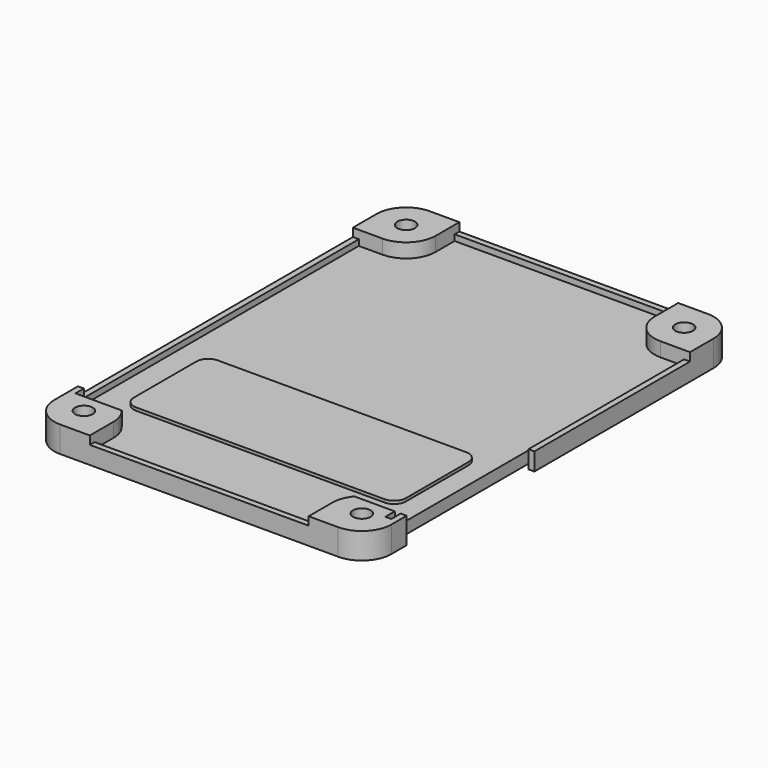
from build123d import *

# Parameters (mm, degrees)
F1_DEPTH = 2.4
F2_R     = 1.5
F3_DEPTH = 2
F4_DEPTH = 0.4
F2_W     = 37
F2_H     = 1
F5_DEPTH = 0.6
F7_DEPTH = 4.4
F9_DEPTH = 0.5


with BuildPart() as f1:
    # F0 (on Top) → F1 (new body)
    with BuildSketch(Plane.XY):
        with BuildLine():
            Line((20.160271, 23.298074), (-26.839729, 23.298074))
            ThreePointArc((-26.839729, 23.298074), (-30.375263, 21.833608), (-31.839729, 18.298074))
            Line((-31.839729, 18.298074), (-31.839729, -49.801926))
            ThreePointArc((-31.839729, -49.801926), (-30.375263, -53.33746), (-26.839729, -54.801926))
            Line((-26.839729, -54.801926), (20.160271, -54.801926))
            ThreePointArc((20.160271, -54.801926), (23.695805, -53.33746), (25.160271, -49.801926))
            Line((25.160271, -49.801926), (25.160271, 18.298074))
            ThreePointArc((25.160271, 18.298074), (23.695805, 21.833608), (20.160271, 23.298074))
        make_face()
        Polygon((-30.072891, -49.801926), (-28.45631, -47.001926), (-25.223148, -47.001926), (-23.606568, -49.801926), (-25.223148, -52.601926), (-28.45631, -52.601926), align=None, mode=Mode.SUBTRACT)
        Polygon((16.927109, -49.801926), (18.54369, -47.001926), (21.776852, -47.001926), (23.393432, -49.801926), (21.776852, -52.601926), (18.54369, -52.601926), align=None, mode=Mode.SUBTRACT)
        Polygon((-30.072891, 18.298074), (-28.45631, 21.098074), (-25.223148, 21.098074), (-23.606568, 18.298074), (-25.223148, 15.498074), (-28.45631, 15.498074), align=None, mode=Mode.SUBTRACT)
        Polygon((16.927109, 18.298074), (18.54369, 21.098074), (21.776852, 21.098074), (23.393432, 18.298074), (21.776852, 15.498074), (18.54369, 15.498074), align=None, mode=Mode.SUBTRACT)
    extrude(amount=F1_DEPTH)

    # F2 (on face) → F3 (join)
    with BuildSketch(Plane.XY.offset(2.4)):
        with BuildLine():
            Line((-21.839729, 23.298074), (-26.839729, 23.298074))
            ThreePointArc((-26.839729, 23.298074), (-30.375263, 21.833608), (-31.839729, 18.298074))
            Line((-31.839729, 18.298074), (-31.839729, 13.298074))
            Line((-31.839729, 13.298074), (-30.839729, 13.298074))
            Line((-30.839729, 13.298074), (-26.839729, 13.298074))
            ThreePointArc((-26.839729, 13.298074), (-23.304195, 14.76254), (-21.839729, 18.298074))
            Line((-21.839729, 18.298074), (-21.839729, 22.298074))
            Line((-21.839729, 22.298074), (-21.839729, 23.298074))
        make_face()
        Polygon((-28.45631, 15.498074), (-30.072891, 18.298074), (-28.45631, 21.098074), (-25.223148, 21.098074), (-23.606568, 18.298074), (-25.223148, 15.498074), align=None, mode=Mode.SUBTRACT)
        with BuildLine():
            Line((20.160271, 23.298074), (15.160271, 23.298074))
            Line((15.160271, 23.298074), (15.160271, 22.298074))
            Line((15.160271, 22.298074), (15.160271, 18.298074))
            ThreePointArc((15.160271, 18.298074), (16.624737, 14.76254), (20.160271, 13.298074))
            Line((20.160271, 13.298074), (24.160271, 13.298074))
            Line((24.160271, 13.298074), (25.160271, 13.298074))
            Line((25.160271, 13.298074), (25.160271, 18.298074))
            ThreePointArc((25.160271, 18.298074), (23.695805, 21.833608), (20.160271, 23.298074))
        make_face()
        Polygon((23.393432, 18.298074), (21.776852, 15.498074), (18.54369, 15.498074), (16.927109, 18.298074), (18.54369, 21.098074), (21.776852, 21.098074), align=None, mode=Mode.SUBTRACT)
        with BuildLine():
            Line((25.160271, -49.801926), (25.160271, -44.801926))
            Line((25.160271, -44.801926), (24.160271, -44.801926))
            Line((24.160271, -44.801926), (24.160271, -46.590926))
            Line((24.160271, -46.590926), (16.327585, -46.590926))
            ThreePointArc((16.327585, -46.590926), (15.461152, -48.093627), (15.160271, -49.801926))
            Line((15.160271, -49.801926), (15.160271, -53.801926))
            Line((15.160271, -53.801926), (15.160271, -54.801926))
            Line((15.160271, -54.801926), (20.160271, -54.801926))
            ThreePointArc((20.160271, -54.801926), (23.695805, -53.33746), (25.160271, -49.801926))
        make_face()
        Polygon((18.54369, -52.601926), (16.927109, -49.801926), (18.54369, -47.001926), (21.776852, -47.001926), (23.393432, -49.801926), (21.776852, -52.601926), align=None, mode=Mode.SUBTRACT)
        with BuildLine():
            Line((-30.839729, -44.801926), (-31.839729, -44.801926))
            Line((-31.839729, -44.801926), (-31.839729, -49.801926))
            ThreePointArc((-31.839729, -49.801926), (-30.375263, -53.33746), (-26.839729, -54.801926))
            Line((-26.839729, -54.801926), (-21.839729, -54.801926))
            Line((-21.839729, -54.801926), (-21.839729, -53.801926))
            Line((-21.839729, -53.801926), (-21.839729, -49.801926))
            ThreePointArc((-21.839729, -49.801926), (-22.140611, -48.093627), (-23.007044, -46.590926))
            Line((-23.007044, -46.590926), (-30.839729, -46.590926))
            Line((-30.839729, -46.590926), (-30.839729, -44.801926))
        make_face()
        Polygon((-25.223148, -52.601926), (-28.45631, -52.601926), (-30.072891, -49.801926), (-28.45631, -47.001926), (-25.223148, -47.001926), (-23.606568, -49.801926), align=None, mode=Mode.SUBTRACT)
        Polygon((-30.072891, -49.801926), (-28.45631, -52.601926), (-25.223148, -52.601926), (-23.606568, -49.801926), (-25.223148, -47.001926), (-28.45631, -47.001926), align=None)
        with Locations((-26.839729, -49.801926)):
            Circle(F2_R, mode=Mode.SUBTRACT)
        Polygon((18.54369, -47.001926), (16.927109, -49.801926), (18.54369, -52.601926), (21.776852, -52.601926), (23.393432, -49.801926), (21.776852, -47.001926), align=None)
        with Locations((20.160271, -49.801926)):
            Circle(F2_R, mode=Mode.SUBTRACT)
        Polygon((18.54369, 15.498074), (21.776852, 15.498074), (23.393432, 18.298074), (21.776852, 21.098074), (18.54369, 21.098074), (16.927109, 18.298074), align=None)
        with Locations((20.160271, 18.298074)):
            Circle(F2_R, mode=Mode.SUBTRACT)
        Polygon((-28.45631, 21.098074), (-30.072891, 18.298074), (-28.45631, 15.498074), (-25.223148, 15.498074), (-23.606568, 18.298074), (-25.223148, 21.098074), align=None)
        with Locations((-26.839729, 18.298074)):
            Circle(F2_R, mode=Mode.SUBTRACT)
    extrude(amount=F3_DEPTH)

    # F2 (on face) → F4 (cut)
    with BuildSketch(Plane.XY.offset(2.4)):
        with BuildLine():
            Line((15.160271, 22.298074), (-21.839729, 22.298074))
            Line((-21.839729, 22.298074), (-21.839729, 18.298074))
            ThreePointArc((-21.839729, 18.298074), (-23.304195, 14.76254), (-26.839729, 13.298074))
            Line((-26.839729, 13.298074), (-30.839729, 13.298074))
            Line((-30.839729, 13.298074), (-30.839729, -43.238085))
            Line((-30.839729, -43.238085), (-30.839729, -44.801926))
            Line((-30.839729, -44.801926), (-30.839729, -46.590926))
            Line((-30.839729, -46.590926), (-23.007044, -46.590926))
            ThreePointArc((-23.007044, -46.590926), (-22.140611, -48.093627), (-21.839729, -49.801926))
            Line((-21.839729, -49.801926), (-21.839729, -53.801926))
            Line((-21.839729, -53.801926), (15.160271, -53.801926))
            Line((15.160271, -53.801926), (15.160271, -49.801926))
            ThreePointArc((15.160271, -49.801926), (15.461152, -48.093627), (16.327585, -46.590926))
            Line((16.327585, -46.590926), (24.160271, -46.590926))
            Line((24.160271, -46.590926), (24.160271, -44.801926))
            Line((24.160271, -44.801926), (24.160271, -43.238085))
            Line((24.160271, -43.238085), (24.160271, 13.298074))
            Line((24.160271, 13.298074), (20.160271, 13.298074))
            ThreePointArc((20.160271, 13.298074), (16.624737, 14.76254), (15.160271, 18.298074))
            Line((15.160271, 18.298074), (15.160271, 22.298074))
        make_face()
    extrude(amount=-F4_DEPTH, mode=Mode.SUBTRACT)

    # F2 (on face) → F5 (join)
    with BuildSketch(Plane.XY.offset(2.4)):
        Polygon((-30.839729, 13.298074), (-31.839729, 13.298074), (-31.839729, -44.801926), (-30.839729, -44.801926), (-30.839729, -43.238085), align=None)
        with Locations((-3.339729, 22.798074)):
            Rectangle(F2_W, F2_H)
        Polygon((25.160271, -44.801926), (25.160271, 13.298074), (24.160271, 13.298074), (24.160271, -43.238085), (24.160271, -44.801926), align=None)
        with Locations((-3.339729, -54.301926)):
            Rectangle(F2_W, F2_H)
    extrude(amount=F5_DEPTH)

    # F6 (on face) → F7 (cut)
    with BuildSketch(Plane(origin=(0, 0, 0), x_dir=(1, 0, 0), z_dir=(0, 0, -1))):
        Polygon((24.160271, 19.590926), (25.160271, 19.590926), (25.160271, 46.590926), (24.160271, 46.590926), (24.160271, 48.590926), (23.160271, 48.590926), (23.160271, 46.590926), (23.160271, 19.590926), (23.160271, 17.590926), (24.160271, 17.590926), align=None)
    extrude(amount=-F7_DEPTH, mode=Mode.SUBTRACT)

    # F8 (on face) → F9 (join)
    with BuildSketch(Plane.XY.offset(2)):
        with BuildLine():
            ThreePointArc((19.663978, -26.639785), (19.078192, -25.225571), (17.663978, -24.639785))
            Line((17.663978, -24.639785), (-24.344087, -24.639785))
            ThreePointArc((-24.344087, -24.639785), (-25.758301, -25.225571), (-26.344087, -26.639785))
            Line((-26.344087, -26.639785), (-26.344087, -39.868281))
            ThreePointArc((-26.344087, -39.868281), (-25.758301, -41.282494), (-24.344087, -41.868281))
            Line((-24.344087, -41.868281), (17.663978, -41.868281))
            ThreePointArc((17.663978, -41.868281), (19.078192, -41.282494), (19.663978, -39.868281))
            Line((19.663978, -39.868281), (19.663978, -26.639785))
        make_face()
    extrude(amount=F9_DEPTH)


solid = f1.part
